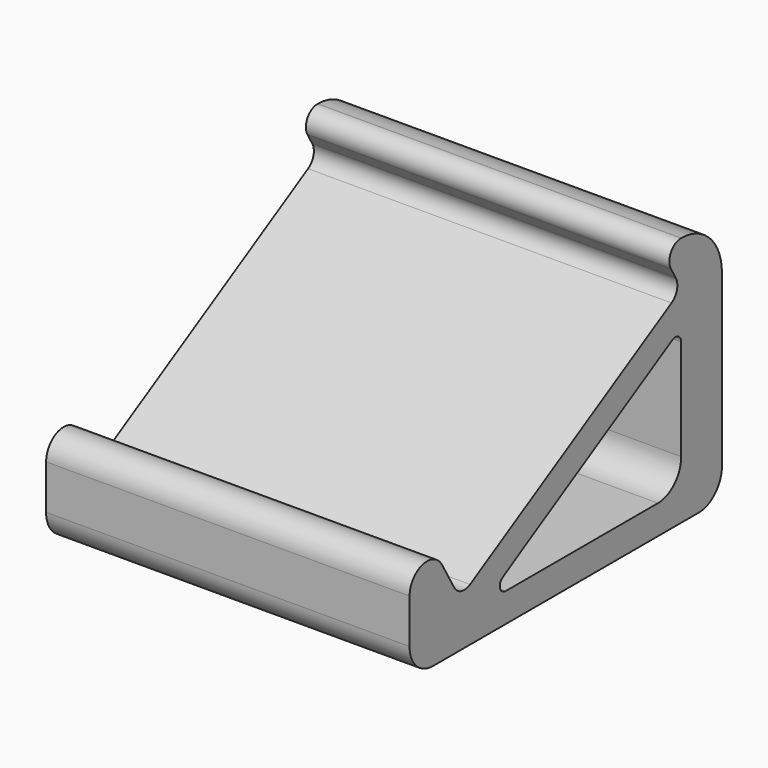
from build123d import *

# Parameters (mm, degrees)
F1_DEPTH      = 12.5
F1_DEPTH_BACK = 12.5


with BuildPart() as f1:
    # F0 (on Right) → F1 (new body, two sides)
    with BuildSketch(Plane.YZ) as f1_sk:
        with BuildLine():
            ThreePointArc((9.632908, 11.806406), (9.732809, 11.047587), (9.266883, 10.440381))
            Line((9.266883, 10.440381), (-8.053625, 0.440381))
            ThreePointArc((-8.053625, 0.440381), (-8.812444, 0.34048), (-9.41965, 0.806406))
            Line((-9.41965, 0.806406), (-10.454072, 2.598076))
            ThreePointArc((-10.454072, 2.598076), (-12.140511, 3.297186), (-13.253109, 1.849789))
            Line((-13.253109, 1.849789), (-13.256593, -1.202352))
            ThreePointArc((-13.256593, -1.202352), (-12.671615, -2.618041), (-11.256594, -3.204635))
            Line((-11.256594, -3.204635), (11.598487, -3.204635))
            ThreePointArc((11.598487, -3.204635), (13.012701, -2.618849), (13.598487, -1.204635))
            Line((13.598487, -1.204635), (13.598487, 10.531089))
            ThreePointArc((13.598487, 10.531089), (12.573361, 13.005963), (10.098487, 14.031089))
            Line((10.098487, 14.031089), (10.080538, 14.031089))
            ThreePointArc((10.080538, 14.031089), (9.214513, 13.531089), (9.214513, 12.531089))
            Line((9.214513, 12.531089), (9.632908, 11.806406))
        make_face()
        with BuildLine():
            Line((10.098487, 7.745081), (10.098487, 0.795365))
            ThreePointArc((10.098487, 0.795365), (9.512701, -0.618849), (8.098487, -1.204635))
            Line((8.098487, -1.204635), (-4.999951, -1.204635))
            ThreePointArc((-4.999951, -1.204635), (-5.482408, -0.835916), (-5.253301, -0.273574))
            Line((-5.253301, -0.273574), (-3.200361, 0.933013))
            Line((-3.200361, 0.933013), (-1.584336, 1.866025))
            Line((-1.584336, 1.866025), (9.348487, 8.178094))
            ThreePointArc((9.348487, 8.178094), (9.848487, 8.178094), (10.098487, 7.745081))
        make_face(mode=Mode.SUBTRACT)
    extrude(amount=F1_DEPTH)
    extrude(f1_sk.sketch, amount=-F1_DEPTH_BACK)


solid = f1.part
